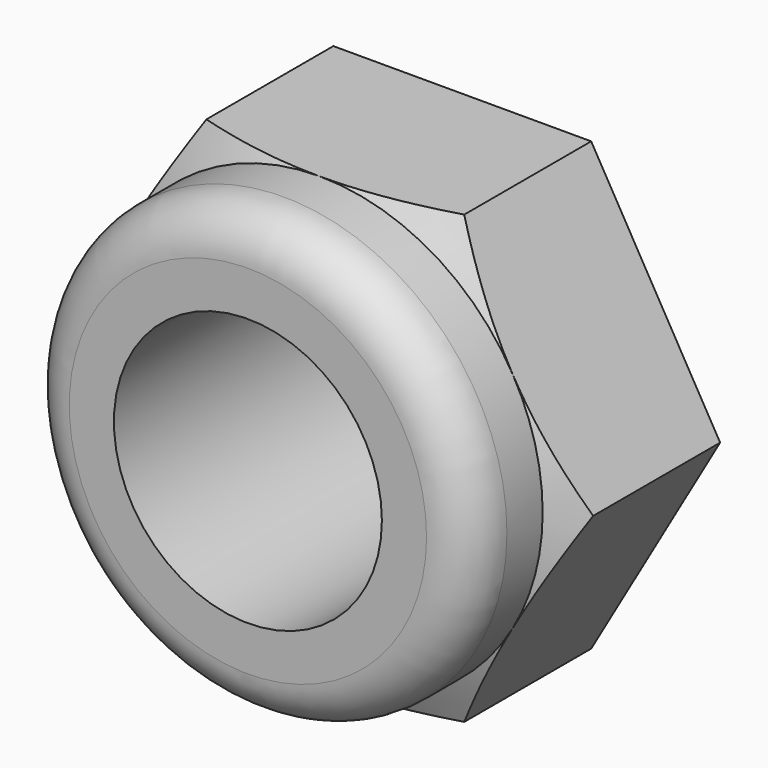
from build123d import *

# Parameters (mm, degrees)
F0_R     = 3
F1_DEPTH = 4
F4_R     = 5
F4_R_2   = 3
F5_DEPTH = 2
F6_R     = 1


with BuildPart() as f1:
    # F0 (on Front) → F1 (new body)
    with BuildSketch(Plane.XZ):
        Polygon((2.886751, -5), (5.773503, 0), (2.886751, 5), (-2.886751, 5), (-5.773503, 0), (-2.886751, -5), align=None)
        Circle(F0_R, mode=Mode.SUBTRACT)
    extrude(amount=F1_DEPTH)

    # F2 (on Right) → F3 (revolve, cut)
    with BuildSketch(Plane.YZ):
        Polygon((-5.443376, 7.5), (-5.443376, 2.5), (-2.556624, 7.5), align=None)
    revolve(axis=Axis((0, 0, 0), (0, 1, 0)), mode=Mode.SUBTRACT)

    # F4 (on face) → F5 (join)
    with BuildSketch(Plane.XZ.offset(4)):
        Circle(F4_R)
        Circle(F4_R_2, mode=Mode.SUBTRACT)
    extrude(amount=F5_DEPTH)

    # F6
    f6_edges = [f1.edges().sort_by_distance(p)[0] for p in [
        (-5, -6, 0),
    ]]
    fillet(f6_edges, radius=F6_R)


solid = f1.part
